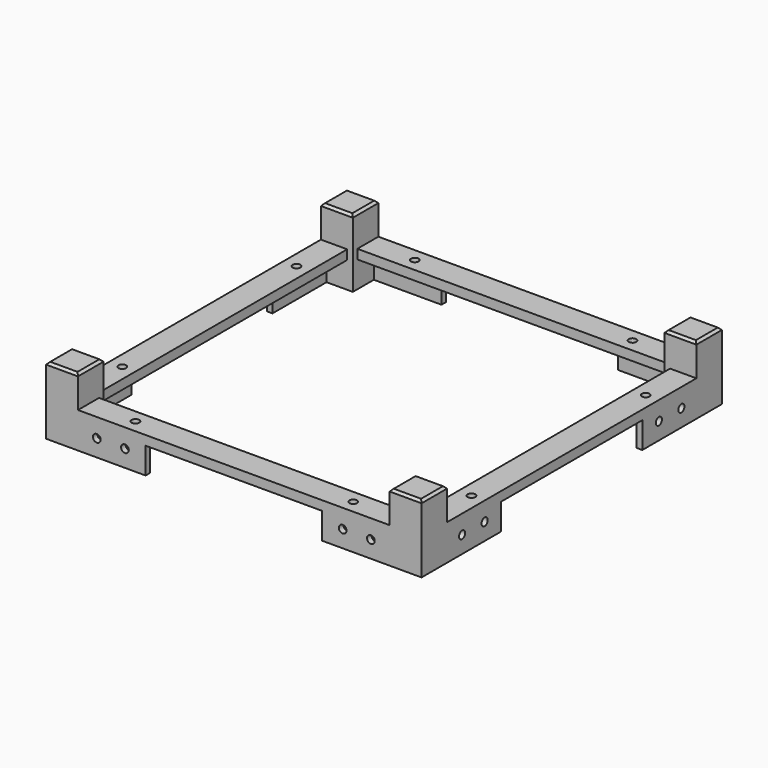
from build123d import *

# Parameters (mm, degrees)
CUBE033_W                     = 9.5
CUBE033_H                     = 9.5
CUBE033_DEPTH                 = 100
CUBE033_ROLL_ANGLE            = 45
CUBE033_PLACEMENT_ANGLE       = 180
CUBE032_W                     = 9.5
CUBE032_H                     = 9.5
CUBE032_DEPTH                 = 100
CUBE032_PLACEMENT_ANGLE       = 45
CUBE035_W                     = 9.5
CUBE035_H                     = 9.5
CUBE035_DEPTH                 = 100
CUBE035_ROLL_ANGLE            = 45
CUBE035_PLACEMENT_ANGLE       = -90
CUBE034_W                     = 9.5
CUBE034_H                     = 9.5
CUBE034_DEPTH                 = 100
CUBE034_PLACEMENT_ANGLE       = 45
CUBE031_W                     = 9.5
CUBE031_H                     = 9.5
CUBE031_DEPTH                 = 100
CUBE031_ROLL_ANGLE            = 45
CUBE031_PLACEMENT_ANGLE       = 90
CUBE030_W                     = 9.5
CUBE030_H                     = 9.5
CUBE030_DEPTH                 = 100
CUBE030_PLACEMENT_ANGLE       = 45
CUBE029_W                     = 8.5
CUBE029_H                     = 8.5
CUBE029_DEPTH                 = 18
DIFFERENCE011_PLACEMENT_ANGLE = 90
CUBE026_W                     = 9.5
CUBE026_H                     = 9.5
CUBE026_DEPTH                 = 100
CUBE026_ROLL_ANGLE            = 45
CUBE026_PLACEMENT_ANGLE       = 180
CUBE025_W                     = 9.5
CUBE025_H                     = 9.5
CUBE025_DEPTH                 = 100
CUBE025_PLACEMENT_ANGLE       = 45
CUBE028_W                     = 9.5
CUBE028_H                     = 9.5
CUBE028_DEPTH                 = 100
CUBE028_ROLL_ANGLE            = 45
CUBE028_PLACEMENT_ANGLE       = -90
CUBE027_W                     = 9.5
CUBE027_H                     = 9.5
CUBE027_DEPTH                 = 100
CUBE027_PLACEMENT_ANGLE       = 45
CUBE024_W                     = 9.5
CUBE024_H                     = 9.5
CUBE024_DEPTH                 = 100
CUBE024_ROLL_ANGLE            = 45
CUBE024_PLACEMENT_ANGLE       = 90
CUBE023_W                     = 9.5
CUBE023_H                     = 9.5
CUBE023_DEPTH                 = 100
CUBE023_PLACEMENT_ANGLE       = 45
CUBE022_W                     = 8.5
CUBE022_H                     = 8.5
CUBE022_DEPTH                 = 18
CUBE047_W                     = 9.5
CUBE047_H                     = 9.5
CUBE047_DEPTH                 = 100
CUBE047_ROLL_ANGLE            = 45
CUBE047_PLACEMENT_ANGLE       = 180
CUBE046_W                     = 9.5
CUBE046_H                     = 9.5
CUBE046_DEPTH                 = 100
CUBE046_PLACEMENT_ANGLE       = 45
CUBE049_W                     = 9.5
CUBE049_H                     = 9.5
CUBE049_DEPTH                 = 100
CUBE049_ROLL_ANGLE            = 45
CUBE049_PLACEMENT_ANGLE       = -90
CUBE048_W                     = 9.5
CUBE048_H                     = 9.5
CUBE048_DEPTH                 = 100
CUBE048_PLACEMENT_ANGLE       = 45
CUBE045_W                     = 9.5
CUBE045_H                     = 9.5
CUBE045_DEPTH                 = 100
CUBE045_ROLL_ANGLE            = 45
CUBE045_PLACEMENT_ANGLE       = 90
CUBE044_W                     = 9.5
CUBE044_H                     = 9.5
CUBE044_DEPTH                 = 100
CUBE044_PLACEMENT_ANGLE       = 45
CUBE043_W                     = 8.5
CUBE043_H                     = 8.5
CUBE043_DEPTH                 = 18
DIFFERENCE013_PLACEMENT_ANGLE = 180
CUBE040_W                     = 9.5
CUBE040_H                     = 9.5
CUBE040_DEPTH                 = 100
CUBE040_ROLL_ANGLE            = 45
CUBE040_PLACEMENT_ANGLE       = 180
CUBE039_W                     = 9.5
CUBE039_H                     = 9.5
CUBE039_DEPTH                 = 100
CUBE039_PLACEMENT_ANGLE       = 45
CUBE042_W                     = 9.5
CUBE042_H                     = 9.5
CUBE042_DEPTH                 = 100
CUBE042_ROLL_ANGLE            = 45
CUBE042_PLACEMENT_ANGLE       = -90
CUBE041_W                     = 9.5
CUBE041_H                     = 9.5
CUBE041_DEPTH                 = 100
CUBE041_PLACEMENT_ANGLE       = 45
CUBE038_W                     = 9.5
CUBE038_H                     = 9.5
CUBE038_DEPTH                 = 100
CUBE038_ROLL_ANGLE            = 45
CUBE038_PLACEMENT_ANGLE       = 90
CUBE037_W                     = 9.5
CUBE037_H                     = 9.5
CUBE037_DEPTH                 = 100
CUBE037_PLACEMENT_ANGLE       = 45
CUBE036_W                     = 8.5
CUBE036_H                     = 8.5
CUBE036_DEPTH                 = 18
CUBE061_W                     = 9.5
CUBE061_H                     = 9.5
CUBE061_DEPTH                 = 100
CUBE061_ROLL_ANGLE            = 45
CUBE061_PLACEMENT_ANGLE       = 180
CUBE060_W                     = 9.5
CUBE060_H                     = 9.5
CUBE060_DEPTH                 = 100
CUBE060_PLACEMENT_ANGLE       = 45
CUBE063_W                     = 9.5
CUBE063_H                     = 9.5
CUBE063_DEPTH                 = 100
CUBE063_ROLL_ANGLE            = 45
CUBE063_PLACEMENT_ANGLE       = -90
CUBE062_W                     = 9.5
CUBE062_H                     = 9.5
CUBE062_DEPTH                 = 100
CUBE062_PLACEMENT_ANGLE       = 45
CUBE059_W                     = 9.5
CUBE059_H                     = 9.5
CUBE059_DEPTH                 = 100
CUBE059_ROLL_ANGLE            = 45
CUBE059_PLACEMENT_ANGLE       = 90
CUBE058_W                     = 9.5
CUBE058_H                     = 9.5
CUBE058_DEPTH                 = 100
CUBE058_PLACEMENT_ANGLE       = 45
CUBE057_W                     = 8.5
CUBE057_H                     = 8.5
CUBE057_DEPTH                 = 18
DIFFERENCE015_PLACEMENT_ANGLE = 90
CUBE054_W                     = 9.5
CUBE054_H                     = 9.5
CUBE054_DEPTH                 = 100
CUBE054_ROLL_ANGLE            = 45
CUBE054_PLACEMENT_ANGLE       = 180
CUBE053_W                     = 9.5
CUBE053_H                     = 9.5
CUBE053_DEPTH                 = 100
CUBE053_PLACEMENT_ANGLE       = 45
CUBE056_W                     = 9.5
CUBE056_H                     = 9.5
CUBE056_DEPTH                 = 100
CUBE056_ROLL_ANGLE            = 45
CUBE056_PLACEMENT_ANGLE       = -90
CUBE055_W                     = 9.5
CUBE055_H                     = 9.5
CUBE055_DEPTH                 = 100
CUBE055_PLACEMENT_ANGLE       = 45
CUBE052_W                     = 9.5
CUBE052_H                     = 9.5
CUBE052_DEPTH                 = 100
CUBE052_ROLL_ANGLE            = 45
CUBE052_PLACEMENT_ANGLE       = 90
CUBE051_W                     = 9.5
CUBE051_H                     = 9.5
CUBE051_DEPTH                 = 100
CUBE051_PLACEMENT_ANGLE       = 45
CUBE050_W                     = 8.5
CUBE050_H                     = 8.5
CUBE050_DEPTH                 = 18
CUBE019_W                     = 9.5
CUBE019_H                     = 9.5
CUBE019_DEPTH                 = 100
CUBE019_ROLL_ANGLE            = 45
CUBE019_PLACEMENT_ANGLE       = 180
CUBE018_W                     = 9.5
CUBE018_H                     = 9.5
CUBE018_DEPTH                 = 100
CUBE018_PLACEMENT_ANGLE       = 45
CUBE021_W                     = 9.5
CUBE021_H                     = 9.5
CUBE021_DEPTH                 = 100
CUBE021_ROLL_ANGLE            = 45
CUBE021_PLACEMENT_ANGLE       = -90
CUBE020_W                     = 9.5
CUBE020_H                     = 9.5
CUBE020_DEPTH                 = 100
CUBE020_PLACEMENT_ANGLE       = 45
CUBE017_W                     = 9.5
CUBE017_H                     = 9.5
CUBE017_DEPTH                 = 100
CUBE017_ROLL_ANGLE            = 45
CUBE017_PLACEMENT_ANGLE       = 90
CUBE016_W                     = 9.5
CUBE016_H                     = 9.5
CUBE016_DEPTH                 = 100
CUBE016_PLACEMENT_ANGLE       = 45
CUBE015_W                     = 8.5
CUBE015_H                     = 8.5
CUBE015_DEPTH                 = 18
CUBE012_W                     = 9.5
CUBE012_H                     = 9.5
CUBE012_DEPTH                 = 100
CUBE012_ROLL_ANGLE            = 45
CUBE012_PLACEMENT_ANGLE       = 180
CUBE011_W                     = 9.5
CUBE011_H                     = 9.5
CUBE011_DEPTH                 = 100
CUBE011_PLACEMENT_ANGLE       = 45
CUBE014_W                     = 9.5
CUBE014_H                     = 9.5
CUBE014_DEPTH                 = 100
CUBE014_ROLL_ANGLE            = 45
CUBE014_PLACEMENT_ANGLE       = -90
CUBE013_W                     = 9.5
CUBE013_H                     = 9.5
CUBE013_DEPTH                 = 100
CUBE013_PLACEMENT_ANGLE       = 45
CUBE010_W                     = 9.5
CUBE010_H                     = 9.5
CUBE010_DEPTH                 = 100
CUBE010_ROLL_ANGLE            = 45
CUBE010_PLACEMENT_ANGLE       = 90
CUBE009_W                     = 9.5
CUBE009_H                     = 9.5
CUBE009_DEPTH                 = 100
CUBE009_PLACEMENT_ANGLE       = 45
CUBE008_W                     = 8.5
CUBE008_H                     = 8.5
CUBE008_DEPTH                 = 18
CYLINDER023_R                 = 1.025
CYLINDER023_DEPTH             = 500
CYLINDER022_R                 = 1.025
CYLINDER022_DEPTH             = 500
CYLINDER021_R                 = 1.025
CYLINDER021_DEPTH             = 500
CYLINDER020_R                 = 1.025
CYLINDER020_DEPTH             = 500
GROUP060_PLACEMENT_ANGLE      = 90
CYLINDER027_R                 = 1.025
CYLINDER027_DEPTH             = 500
CYLINDER026_R                 = 1.025
CYLINDER026_DEPTH             = 500
CYLINDER025_R                 = 1.025
CYLINDER025_DEPTH             = 500
CYLINDER024_R                 = 1.025
CYLINDER024_DEPTH             = 500
GROUP063_PLACEMENT_ANGLE      = 180
CYLINDER031_R                 = 1.025
CYLINDER031_DEPTH             = 500
CYLINDER030_R                 = 1.025
CYLINDER030_DEPTH             = 500
CYLINDER029_R                 = 1.025
CYLINDER029_DEPTH             = 500
CYLINDER028_R                 = 1.025
CYLINDER028_DEPTH             = 500
GROUP066_PLACEMENT_ANGLE      = 90
CYLINDER019_R                 = 1.025
CYLINDER019_DEPTH             = 500
CYLINDER018_R                 = 1.025
CYLINDER018_DEPTH             = 500
CYLINDER017_R                 = 1.025
CYLINDER017_DEPTH             = 500
CYLINDER016_R                 = 1.025
CYLINDER016_DEPTH             = 500
CUBE067_W                     = 1.5
CUBE067_H                     = 18
CUBE067_DEPTH                 = 9.5
CUBE066_W                     = 1.5
CUBE066_H                     = 18
CUBE066_DEPTH                 = 9.5
GROUP051_PLACEMENT_ANGLE      = 90
CUBE069_W                     = 1.5
CUBE069_H                     = 18
CUBE069_DEPTH                 = 9.5
CUBE068_W                     = 1.5
CUBE068_H                     = 18
CUBE068_DEPTH                 = 9.5
GROUP052_PLACEMENT_ANGLE      = 180
CUBE071_W                     = 1.5
CUBE071_H                     = 18
CUBE071_DEPTH                 = 9.5
CUBE070_W                     = 1.5
CUBE070_H                     = 18
CUBE070_DEPTH                 = 9.5
GROUP053_PLACEMENT_ANGLE      = 90
CUBE065_W                     = 1.5
CUBE065_H                     = 18
CUBE065_DEPTH                 = 9.5
CUBE064_W                     = 1.5
CUBE064_H                     = 18
CUBE064_DEPTH                 = 9.5
CYLINDER007_R                 = 1.025
CYLINDER007_DEPTH             = 100
CYLINDER006_R                 = 1.025
CYLINDER006_DEPTH             = 100
CUBE003_W                     = 100
CUBE003_H                     = 7
CUBE003_DEPTH                 = 2.5
DIFFERENCE003_PLACEMENT_ANGLE = 90
CYLINDER005_R                 = 1.025
CYLINDER005_DEPTH             = 100
CYLINDER004_R                 = 1.025
CYLINDER004_DEPTH             = 100
CUBE002_W                     = 100
CUBE002_H                     = 7
CUBE002_DEPTH                 = 2.5
CYLINDER011_R                 = 1.025
CYLINDER011_DEPTH             = 100
CYLINDER010_R                 = 1.025
CYLINDER010_DEPTH             = 100
CUBE005_W                     = 100
CUBE005_H                     = 7
CUBE005_DEPTH                 = 2.5
DIFFERENCE005_PLACEMENT_ANGLE = 180
CYLINDER009_R                 = 1.025
CYLINDER009_DEPTH             = 100
CYLINDER008_R                 = 1.025
CYLINDER008_DEPTH             = 100
CUBE004_W                     = 100
CUBE004_H                     = 7
CUBE004_DEPTH                 = 2.5
CYLINDER015_R                 = 1.025
CYLINDER015_DEPTH             = 100
CYLINDER014_R                 = 1.025
CYLINDER014_DEPTH             = 100
CUBE007_W                     = 100
CUBE007_H                     = 7
CUBE007_DEPTH                 = 2.5
DIFFERENCE007_PLACEMENT_ANGLE = 90
CYLINDER013_R                 = 1.025
CYLINDER013_DEPTH             = 100
CYLINDER012_R                 = 1.025
CYLINDER012_DEPTH             = 100
CUBE006_W                     = 100
CUBE006_H                     = 7
CUBE006_DEPTH                 = 2.5
CYLINDER003_R                 = 1.025
CYLINDER003_DEPTH             = 100
CYLINDER002_R                 = 1.025
CYLINDER002_DEPTH             = 100
CUBE001_W                     = 100
CUBE001_H                     = 7
CUBE001_DEPTH                 = 2.5
CYLINDER001_R                 = 1.025
CYLINDER001_DEPTH             = 100
CYLINDER_R                    = 1.025
CYLINDER_DEPTH                = 100
CUBE_W                        = 100
CUBE_H                        = 7
CUBE_DEPTH                    = 2.5


with BuildPart() as cube033:
    # cube033 → cube033 (new body)
    with BuildSketch(Plane.XY):
        with Locations((4.75, 4.75)):
            Rectangle(CUBE033_W, CUBE033_H)
    extrude(amount=CUBE033_DEPTH)


with BuildPart() as cube033_1:
    # cube033 roll: moved
    add(cube033.part.rotate(Axis((0, 0, 0), (1, 0, 0)), CUBE033_ROLL_ANGLE))


with BuildPart() as cube033_2:
    # cube033 placement: moved
    add(cube033_1.part.moved(Location((4.75, -42.346582, -38.714096))).rotate(Axis((4.75, -42.346582, -38.714096), (0, 0, 1)), CUBE033_PLACEMENT_ANGLE))


with BuildPart() as group027:
    # cube032 → cube032 (new body)
    with BuildSketch(Plane.XY):
        with Locations((4.75, 4.75)):
            Rectangle(CUBE032_W, CUBE032_H)
    extrude(amount=CUBE032_DEPTH)


with BuildPart() as group027_1:
    # cube032 placement: moved
    add(group027.part.moved(Location((-4.75, 42.346582, -38.714096))).rotate(Axis((-4.75, 42.346582, -38.714096), (1, 0, 0)), CUBE032_PLACEMENT_ANGLE))

    # Group027: union cube033
    add(cube033_2.part)


with BuildPart() as cube035:
    # cube035 → cube035 (new body)
    with BuildSketch(Plane.XY):
        with Locations((4.75, 4.75)):
            Rectangle(CUBE035_W, CUBE035_H)
    extrude(amount=CUBE035_DEPTH)


with BuildPart() as cube035_1:
    # cube035 roll: moved
    add(cube035.part.rotate(Axis((0, 0, 0), (1, 0, 0)), CUBE035_ROLL_ANGLE))


with BuildPart() as cube035_2:
    # cube035 placement: moved
    add(cube035_1.part.moved(Location((42.346582, 4.75, -38.714096))).rotate(Axis((42.346582, 4.75, -38.714096), (0, 0, 1)), CUBE035_PLACEMENT_ANGLE))


with BuildPart() as group028:
    # cube034 → cube034 (new body)
    with BuildSketch(Plane.XY):
        with Locations((4.75, 4.75)):
            Rectangle(CUBE034_W, CUBE034_H)
    extrude(amount=CUBE034_DEPTH)


with BuildPart() as group028_1:
    # cube034 placement: moved
    add(group028.part.moved(Location((-4.75, 42.346582, -38.714096))).rotate(Axis((-4.75, 42.346582, -38.714096), (1, 0, 0)), CUBE034_PLACEMENT_ANGLE))

    # Group028: union cube035
    add(cube035_2.part)


with BuildPart() as cube031:
    # cube031 → cube031 (new body)
    with BuildSketch(Plane.XY):
        with Locations((4.75, 4.75)):
            Rectangle(CUBE031_W, CUBE031_H)
    extrude(amount=CUBE031_DEPTH)


with BuildPart() as cube031_1:
    # cube031 roll: moved
    add(cube031.part.rotate(Axis((0, 0, 0), (1, 0, 0)), CUBE031_ROLL_ANGLE))


with BuildPart() as cube031_2:
    # cube031 placement: moved
    add(cube031_1.part.moved(Location((-42.346582, -4.75, -38.714096))).rotate(Axis((-42.346582, -4.75, -38.714096), (0, 0, 1)), CUBE031_PLACEMENT_ANGLE))


with BuildPart() as group029:
    # cube030 → cube030 (new body)
    with BuildSketch(Plane.XY):
        with Locations((4.75, 4.75)):
            Rectangle(CUBE030_W, CUBE030_H)
    extrude(amount=CUBE030_DEPTH)


with BuildPart() as group029_1:
    # cube030 placement: moved
    add(group029.part.moved(Location((-4.75, 42.346582, -38.714096))).rotate(Axis((-4.75, 42.346582, -38.714096), (1, 0, 0)), CUBE030_PLACEMENT_ANGLE))

    # Group026: union cube031
    add(cube031_2.part)

    # Group029: union Group027, Group028
    add(group027_1.part)
    add(group028_1.part)


with BuildPart() as difference011:
    # cube029 → cube029 (new body)
    with BuildSketch(Plane(origin=(-4.25, -4.25, -18), x_dir=(1, 0, 0), z_dir=(0, 0, 1))):
        with Locations((4.25, 4.25)):
            Rectangle(CUBE029_W, CUBE029_H)
    extrude(amount=CUBE029_DEPTH)

    # difference011: cut Group029
    add(group029_1.part, mode=Mode.SUBTRACT)


with BuildPart() as difference011_1:
    # difference011 placement: moved
    add(difference011.part.moved(Location((45.75, -45.75, 8.5))).rotate(Axis((45.75, -45.75, 8.5), (0, 0, 1)), DIFFERENCE011_PLACEMENT_ANGLE))


with BuildPart() as cube026:
    # cube026 → cube026 (new body)
    with BuildSketch(Plane.XY):
        with Locations((4.75, 4.75)):
            Rectangle(CUBE026_W, CUBE026_H)
    extrude(amount=CUBE026_DEPTH)


with BuildPart() as cube026_1:
    # cube026 roll: moved
    add(cube026.part.rotate(Axis((0, 0, 0), (1, 0, 0)), CUBE026_ROLL_ANGLE))


with BuildPart() as cube026_2:
    # cube026 placement: moved
    add(cube026_1.part.moved(Location((4.75, -42.346582, -38.714096))).rotate(Axis((4.75, -42.346582, -38.714096), (0, 0, 1)), CUBE026_PLACEMENT_ANGLE))


with BuildPart() as group023:
    # cube025 → cube025 (new body)
    with BuildSketch(Plane.XY):
        with Locations((4.75, 4.75)):
            Rectangle(CUBE025_W, CUBE025_H)
    extrude(amount=CUBE025_DEPTH)


with BuildPart() as group023_1:
    # cube025 placement: moved
    add(group023.part.moved(Location((-4.75, 42.346582, -38.714096))).rotate(Axis((-4.75, 42.346582, -38.714096), (1, 0, 0)), CUBE025_PLACEMENT_ANGLE))

    # Group023: union cube026
    add(cube026_2.part)


with BuildPart() as cube028:
    # cube028 → cube028 (new body)
    with BuildSketch(Plane.XY):
        with Locations((4.75, 4.75)):
            Rectangle(CUBE028_W, CUBE028_H)
    extrude(amount=CUBE028_DEPTH)


with BuildPart() as cube028_1:
    # cube028 roll: moved
    add(cube028.part.rotate(Axis((0, 0, 0), (1, 0, 0)), CUBE028_ROLL_ANGLE))


with BuildPart() as cube028_2:
    # cube028 placement: moved
    add(cube028_1.part.moved(Location((42.346582, 4.75, -38.714096))).rotate(Axis((42.346582, 4.75, -38.714096), (0, 0, 1)), CUBE028_PLACEMENT_ANGLE))


with BuildPart() as group024:
    # cube027 → cube027 (new body)
    with BuildSketch(Plane.XY):
        with Locations((4.75, 4.75)):
            Rectangle(CUBE027_W, CUBE027_H)
    extrude(amount=CUBE027_DEPTH)


with BuildPart() as group024_1:
    # cube027 placement: moved
    add(group024.part.moved(Location((-4.75, 42.346582, -38.714096))).rotate(Axis((-4.75, 42.346582, -38.714096), (1, 0, 0)), CUBE027_PLACEMENT_ANGLE))

    # Group024: union cube028
    add(cube028_2.part)


with BuildPart() as cube024:
    # cube024 → cube024 (new body)
    with BuildSketch(Plane.XY):
        with Locations((4.75, 4.75)):
            Rectangle(CUBE024_W, CUBE024_H)
    extrude(amount=CUBE024_DEPTH)


with BuildPart() as cube024_1:
    # cube024 roll: moved
    add(cube024.part.rotate(Axis((0, 0, 0), (1, 0, 0)), CUBE024_ROLL_ANGLE))


with BuildPart() as cube024_2:
    # cube024 placement: moved
    add(cube024_1.part.moved(Location((-42.346582, -4.75, -38.714096))).rotate(Axis((-42.346582, -4.75, -38.714096), (0, 0, 1)), CUBE024_PLACEMENT_ANGLE))


with BuildPart() as group025:
    # cube023 → cube023 (new body)
    with BuildSketch(Plane.XY):
        with Locations((4.75, 4.75)):
            Rectangle(CUBE023_W, CUBE023_H)
    extrude(amount=CUBE023_DEPTH)


with BuildPart() as group025_1:
    # cube023 placement: moved
    add(group025.part.moved(Location((-4.75, 42.346582, -38.714096))).rotate(Axis((-4.75, 42.346582, -38.714096), (1, 0, 0)), CUBE023_PLACEMENT_ANGLE))

    # Group022: union cube024
    add(cube024_2.part)

    # Group025: union Group023, Group024
    add(group023_1.part)
    add(group024_1.part)


with BuildPart() as group030:
    # cube022 → cube022 (new body)
    with BuildSketch(Plane(origin=(-4.25, -4.25, -18), x_dir=(1, 0, 0), z_dir=(0, 0, 1))):
        with Locations((4.25, 4.25)):
            Rectangle(CUBE022_W, CUBE022_H)
    extrude(amount=CUBE022_DEPTH)

    # difference010: cut Group025
    add(group025_1.part, mode=Mode.SUBTRACT)


with BuildPart() as group030_1:
    # difference010 placement: moved
    add(group030.part.moved(Location((-45.75, -45.75, 8.5))))

    # Group030: union difference011
    add(difference011_1.part)


with BuildPart() as cube047:
    # cube047 → cube047 (new body)
    with BuildSketch(Plane.XY):
        with Locations((4.75, 4.75)):
            Rectangle(CUBE047_W, CUBE047_H)
    extrude(amount=CUBE047_DEPTH)


with BuildPart() as cube047_1:
    # cube047 roll: moved
    add(cube047.part.rotate(Axis((0, 0, 0), (1, 0, 0)), CUBE047_ROLL_ANGLE))


with BuildPart() as cube047_2:
    # cube047 placement: moved
    add(cube047_1.part.moved(Location((4.75, -42.346582, -38.714096))).rotate(Axis((4.75, -42.346582, -38.714096), (0, 0, 1)), CUBE047_PLACEMENT_ANGLE))


with BuildPart() as group036:
    # cube046 → cube046 (new body)
    with BuildSketch(Plane.XY):
        with Locations((4.75, 4.75)):
            Rectangle(CUBE046_W, CUBE046_H)
    extrude(amount=CUBE046_DEPTH)


with BuildPart() as group036_1:
    # cube046 placement: moved
    add(group036.part.moved(Location((-4.75, 42.346582, -38.714096))).rotate(Axis((-4.75, 42.346582, -38.714096), (1, 0, 0)), CUBE046_PLACEMENT_ANGLE))

    # Group036: union cube047
    add(cube047_2.part)


with BuildPart() as cube049:
    # cube049 → cube049 (new body)
    with BuildSketch(Plane.XY):
        with Locations((4.75, 4.75)):
            Rectangle(CUBE049_W, CUBE049_H)
    extrude(amount=CUBE049_DEPTH)


with BuildPart() as cube049_1:
    # cube049 roll: moved
    add(cube049.part.rotate(Axis((0, 0, 0), (1, 0, 0)), CUBE049_ROLL_ANGLE))


with BuildPart() as cube049_2:
    # cube049 placement: moved
    add(cube049_1.part.moved(Location((42.346582, 4.75, -38.714096))).rotate(Axis((42.346582, 4.75, -38.714096), (0, 0, 1)), CUBE049_PLACEMENT_ANGLE))


with BuildPart() as group037:
    # cube048 → cube048 (new body)
    with BuildSketch(Plane.XY):
        with Locations((4.75, 4.75)):
            Rectangle(CUBE048_W, CUBE048_H)
    extrude(amount=CUBE048_DEPTH)


with BuildPart() as group037_1:
    # cube048 placement: moved
    add(group037.part.moved(Location((-4.75, 42.346582, -38.714096))).rotate(Axis((-4.75, 42.346582, -38.714096), (1, 0, 0)), CUBE048_PLACEMENT_ANGLE))

    # Group037: union cube049
    add(cube049_2.part)


with BuildPart() as cube045:
    # cube045 → cube045 (new body)
    with BuildSketch(Plane.XY):
        with Locations((4.75, 4.75)):
            Rectangle(CUBE045_W, CUBE045_H)
    extrude(amount=CUBE045_DEPTH)


with BuildPart() as cube045_1:
    # cube045 roll: moved
    add(cube045.part.rotate(Axis((0, 0, 0), (1, 0, 0)), CUBE045_ROLL_ANGLE))


with BuildPart() as cube045_2:
    # cube045 placement: moved
    add(cube045_1.part.moved(Location((-42.346582, -4.75, -38.714096))).rotate(Axis((-42.346582, -4.75, -38.714096), (0, 0, 1)), CUBE045_PLACEMENT_ANGLE))


with BuildPart() as group038:
    # cube044 → cube044 (new body)
    with BuildSketch(Plane.XY):
        with Locations((4.75, 4.75)):
            Rectangle(CUBE044_W, CUBE044_H)
    extrude(amount=CUBE044_DEPTH)


with BuildPart() as group038_1:
    # cube044 placement: moved
    add(group038.part.moved(Location((-4.75, 42.346582, -38.714096))).rotate(Axis((-4.75, 42.346582, -38.714096), (1, 0, 0)), CUBE044_PLACEMENT_ANGLE))

    # Group035: union cube045
    add(cube045_2.part)

    # Group038: union Group036, Group037
    add(group036_1.part)
    add(group037_1.part)


with BuildPart() as difference013:
    # cube043 → cube043 (new body)
    with BuildSketch(Plane(origin=(-4.25, -4.25, -18), x_dir=(1, 0, 0), z_dir=(0, 0, 1))):
        with Locations((4.25, 4.25)):
            Rectangle(CUBE043_W, CUBE043_H)
    extrude(amount=CUBE043_DEPTH)

    # difference013: cut Group038
    add(group038_1.part, mode=Mode.SUBTRACT)


with BuildPart() as difference013_1:
    # difference013 placement: moved
    add(difference013.part.moved(Location((45.75, 45.75, 8.5))).rotate(Axis((45.75, 45.75, 8.5), (0, 0, 1)), DIFFERENCE013_PLACEMENT_ANGLE))


with BuildPart() as cube040:
    # cube040 → cube040 (new body)
    with BuildSketch(Plane.XY):
        with Locations((4.75, 4.75)):
            Rectangle(CUBE040_W, CUBE040_H)
    extrude(amount=CUBE040_DEPTH)


with BuildPart() as cube040_1:
    # cube040 roll: moved
    add(cube040.part.rotate(Axis((0, 0, 0), (1, 0, 0)), CUBE040_ROLL_ANGLE))


with BuildPart() as cube040_2:
    # cube040 placement: moved
    add(cube040_1.part.moved(Location((4.75, -42.346582, -38.714096))).rotate(Axis((4.75, -42.346582, -38.714096), (0, 0, 1)), CUBE040_PLACEMENT_ANGLE))


with BuildPart() as group032:
    # cube039 → cube039 (new body)
    with BuildSketch(Plane.XY):
        with Locations((4.75, 4.75)):
            Rectangle(CUBE039_W, CUBE039_H)
    extrude(amount=CUBE039_DEPTH)


with BuildPart() as group032_1:
    # cube039 placement: moved
    add(group032.part.moved(Location((-4.75, 42.346582, -38.714096))).rotate(Axis((-4.75, 42.346582, -38.714096), (1, 0, 0)), CUBE039_PLACEMENT_ANGLE))

    # Group032: union cube040
    add(cube040_2.part)


with BuildPart() as cube042:
    # cube042 → cube042 (new body)
    with BuildSketch(Plane.XY):
        with Locations((4.75, 4.75)):
            Rectangle(CUBE042_W, CUBE042_H)
    extrude(amount=CUBE042_DEPTH)


with BuildPart() as cube042_1:
    # cube042 roll: moved
    add(cube042.part.rotate(Axis((0, 0, 0), (1, 0, 0)), CUBE042_ROLL_ANGLE))


with BuildPart() as cube042_2:
    # cube042 placement: moved
    add(cube042_1.part.moved(Location((42.346582, 4.75, -38.714096))).rotate(Axis((42.346582, 4.75, -38.714096), (0, 0, 1)), CUBE042_PLACEMENT_ANGLE))


with BuildPart() as group033:
    # cube041 → cube041 (new body)
    with BuildSketch(Plane.XY):
        with Locations((4.75, 4.75)):
            Rectangle(CUBE041_W, CUBE041_H)
    extrude(amount=CUBE041_DEPTH)


with BuildPart() as group033_1:
    # cube041 placement: moved
    add(group033.part.moved(Location((-4.75, 42.346582, -38.714096))).rotate(Axis((-4.75, 42.346582, -38.714096), (1, 0, 0)), CUBE041_PLACEMENT_ANGLE))

    # Group033: union cube042
    add(cube042_2.part)


with BuildPart() as cube038:
    # cube038 → cube038 (new body)
    with BuildSketch(Plane.XY):
        with Locations((4.75, 4.75)):
            Rectangle(CUBE038_W, CUBE038_H)
    extrude(amount=CUBE038_DEPTH)


with BuildPart() as cube038_1:
    # cube038 roll: moved
    add(cube038.part.rotate(Axis((0, 0, 0), (1, 0, 0)), CUBE038_ROLL_ANGLE))


with BuildPart() as cube038_2:
    # cube038 placement: moved
    add(cube038_1.part.moved(Location((-42.346582, -4.75, -38.714096))).rotate(Axis((-42.346582, -4.75, -38.714096), (0, 0, 1)), CUBE038_PLACEMENT_ANGLE))


with BuildPart() as group034:
    # cube037 → cube037 (new body)
    with BuildSketch(Plane.XY):
        with Locations((4.75, 4.75)):
            Rectangle(CUBE037_W, CUBE037_H)
    extrude(amount=CUBE037_DEPTH)


with BuildPart() as group034_1:
    # cube037 placement: moved
    add(group034.part.moved(Location((-4.75, 42.346582, -38.714096))).rotate(Axis((-4.75, 42.346582, -38.714096), (1, 0, 0)), CUBE037_PLACEMENT_ANGLE))

    # Group031: union cube038
    add(cube038_2.part)

    # Group034: union Group032, Group033
    add(group032_1.part)
    add(group033_1.part)


with BuildPart() as group039:
    # cube036 → cube036 (new body)
    with BuildSketch(Plane(origin=(-4.25, -4.25, -18), x_dir=(1, 0, 0), z_dir=(0, 0, 1))):
        with Locations((4.25, 4.25)):
            Rectangle(CUBE036_W, CUBE036_H)
    extrude(amount=CUBE036_DEPTH)

    # difference012: cut Group034
    add(group034_1.part, mode=Mode.SUBTRACT)


with BuildPart() as group039_1:
    # difference012 placement: moved
    add(group039.part.moved(Location((-45.75, -45.75, 8.5))))

    # Group039: union difference013
    add(difference013_1.part)


with BuildPart() as cube061:
    # cube061 → cube061 (new body)
    with BuildSketch(Plane.XY):
        with Locations((4.75, 4.75)):
            Rectangle(CUBE061_W, CUBE061_H)
    extrude(amount=CUBE061_DEPTH)


with BuildPart() as cube061_1:
    # cube061 roll: moved
    add(cube061.part.rotate(Axis((0, 0, 0), (1, 0, 0)), CUBE061_ROLL_ANGLE))


with BuildPart() as cube061_2:
    # cube061 placement: moved
    add(cube061_1.part.moved(Location((4.75, -42.346582, -38.714096))).rotate(Axis((4.75, -42.346582, -38.714096), (0, 0, 1)), CUBE061_PLACEMENT_ANGLE))


with BuildPart() as group045:
    # cube060 → cube060 (new body)
    with BuildSketch(Plane.XY):
        with Locations((4.75, 4.75)):
            Rectangle(CUBE060_W, CUBE060_H)
    extrude(amount=CUBE060_DEPTH)


with BuildPart() as group045_1:
    # cube060 placement: moved
    add(group045.part.moved(Location((-4.75, 42.346582, -38.714096))).rotate(Axis((-4.75, 42.346582, -38.714096), (1, 0, 0)), CUBE060_PLACEMENT_ANGLE))

    # Group045: union cube061
    add(cube061_2.part)


with BuildPart() as cube063:
    # cube063 → cube063 (new body)
    with BuildSketch(Plane.XY):
        with Locations((4.75, 4.75)):
            Rectangle(CUBE063_W, CUBE063_H)
    extrude(amount=CUBE063_DEPTH)


with BuildPart() as cube063_1:
    # cube063 roll: moved
    add(cube063.part.rotate(Axis((0, 0, 0), (1, 0, 0)), CUBE063_ROLL_ANGLE))


with BuildPart() as cube063_2:
    # cube063 placement: moved
    add(cube063_1.part.moved(Location((42.346582, 4.75, -38.714096))).rotate(Axis((42.346582, 4.75, -38.714096), (0, 0, 1)), CUBE063_PLACEMENT_ANGLE))


with BuildPart() as group046:
    # cube062 → cube062 (new body)
    with BuildSketch(Plane.XY):
        with Locations((4.75, 4.75)):
            Rectangle(CUBE062_W, CUBE062_H)
    extrude(amount=CUBE062_DEPTH)


with BuildPart() as group046_1:
    # cube062 placement: moved
    add(group046.part.moved(Location((-4.75, 42.346582, -38.714096))).rotate(Axis((-4.75, 42.346582, -38.714096), (1, 0, 0)), CUBE062_PLACEMENT_ANGLE))

    # Group046: union cube063
    add(cube063_2.part)


with BuildPart() as cube059:
    # cube059 → cube059 (new body)
    with BuildSketch(Plane.XY):
        with Locations((4.75, 4.75)):
            Rectangle(CUBE059_W, CUBE059_H)
    extrude(amount=CUBE059_DEPTH)


with BuildPart() as cube059_1:
    # cube059 roll: moved
    add(cube059.part.rotate(Axis((0, 0, 0), (1, 0, 0)), CUBE059_ROLL_ANGLE))


with BuildPart() as cube059_2:
    # cube059 placement: moved
    add(cube059_1.part.moved(Location((-42.346582, -4.75, -38.714096))).rotate(Axis((-42.346582, -4.75, -38.714096), (0, 0, 1)), CUBE059_PLACEMENT_ANGLE))


with BuildPart() as group047:
    # cube058 → cube058 (new body)
    with BuildSketch(Plane.XY):
        with Locations((4.75, 4.75)):
            Rectangle(CUBE058_W, CUBE058_H)
    extrude(amount=CUBE058_DEPTH)


with BuildPart() as group047_1:
    # cube058 placement: moved
    add(group047.part.moved(Location((-4.75, 42.346582, -38.714096))).rotate(Axis((-4.75, 42.346582, -38.714096), (1, 0, 0)), CUBE058_PLACEMENT_ANGLE))

    # Group044: union cube059
    add(cube059_2.part)

    # Group047: union Group045, Group046
    add(group045_1.part)
    add(group046_1.part)


with BuildPart() as difference015:
    # cube057 → cube057 (new body)
    with BuildSketch(Plane(origin=(-4.25, -4.25, -18), x_dir=(1, 0, 0), z_dir=(0, 0, 1))):
        with Locations((4.25, 4.25)):
            Rectangle(CUBE057_W, CUBE057_H)
    extrude(amount=CUBE057_DEPTH)

    # difference015: cut Group047
    add(group047_1.part, mode=Mode.SUBTRACT)


with BuildPart() as difference015_1:
    # difference015 placement: moved
    add(difference015.part.moved(Location((-45.75, 45.75, 8.5))).rotate(Axis((-45.75, 45.75, 8.5), (0, 0, -1)), DIFFERENCE015_PLACEMENT_ANGLE))


with BuildPart() as cube054:
    # cube054 → cube054 (new body)
    with BuildSketch(Plane.XY):
        with Locations((4.75, 4.75)):
            Rectangle(CUBE054_W, CUBE054_H)
    extrude(amount=CUBE054_DEPTH)


with BuildPart() as cube054_1:
    # cube054 roll: moved
    add(cube054.part.rotate(Axis((0, 0, 0), (1, 0, 0)), CUBE054_ROLL_ANGLE))


with BuildPart() as cube054_2:
    # cube054 placement: moved
    add(cube054_1.part.moved(Location((4.75, -42.346582, -38.714096))).rotate(Axis((4.75, -42.346582, -38.714096), (0, 0, 1)), CUBE054_PLACEMENT_ANGLE))


with BuildPart() as group041:
    # cube053 → cube053 (new body)
    with BuildSketch(Plane.XY):
        with Locations((4.75, 4.75)):
            Rectangle(CUBE053_W, CUBE053_H)
    extrude(amount=CUBE053_DEPTH)


with BuildPart() as group041_1:
    # cube053 placement: moved
    add(group041.part.moved(Location((-4.75, 42.346582, -38.714096))).rotate(Axis((-4.75, 42.346582, -38.714096), (1, 0, 0)), CUBE053_PLACEMENT_ANGLE))

    # Group041: union cube054
    add(cube054_2.part)


with BuildPart() as cube056:
    # cube056 → cube056 (new body)
    with BuildSketch(Plane.XY):
        with Locations((4.75, 4.75)):
            Rectangle(CUBE056_W, CUBE056_H)
    extrude(amount=CUBE056_DEPTH)


with BuildPart() as cube056_1:
    # cube056 roll: moved
    add(cube056.part.rotate(Axis((0, 0, 0), (1, 0, 0)), CUBE056_ROLL_ANGLE))


with BuildPart() as cube056_2:
    # cube056 placement: moved
    add(cube056_1.part.moved(Location((42.346582, 4.75, -38.714096))).rotate(Axis((42.346582, 4.75, -38.714096), (0, 0, 1)), CUBE056_PLACEMENT_ANGLE))


with BuildPart() as group042:
    # cube055 → cube055 (new body)
    with BuildSketch(Plane.XY):
        with Locations((4.75, 4.75)):
            Rectangle(CUBE055_W, CUBE055_H)
    extrude(amount=CUBE055_DEPTH)


with BuildPart() as group042_1:
    # cube055 placement: moved
    add(group042.part.moved(Location((-4.75, 42.346582, -38.714096))).rotate(Axis((-4.75, 42.346582, -38.714096), (1, 0, 0)), CUBE055_PLACEMENT_ANGLE))

    # Group042: union cube056
    add(cube056_2.part)


with BuildPart() as cube052:
    # cube052 → cube052 (new body)
    with BuildSketch(Plane.XY):
        with Locations((4.75, 4.75)):
            Rectangle(CUBE052_W, CUBE052_H)
    extrude(amount=CUBE052_DEPTH)


with BuildPart() as cube052_1:
    # cube052 roll: moved
    add(cube052.part.rotate(Axis((0, 0, 0), (1, 0, 0)), CUBE052_ROLL_ANGLE))


with BuildPart() as cube052_2:
    # cube052 placement: moved
    add(cube052_1.part.moved(Location((-42.346582, -4.75, -38.714096))).rotate(Axis((-42.346582, -4.75, -38.714096), (0, 0, 1)), CUBE052_PLACEMENT_ANGLE))


with BuildPart() as group043:
    # cube051 → cube051 (new body)
    with BuildSketch(Plane.XY):
        with Locations((4.75, 4.75)):
            Rectangle(CUBE051_W, CUBE051_H)
    extrude(amount=CUBE051_DEPTH)


with BuildPart() as group043_1:
    # cube051 placement: moved
    add(group043.part.moved(Location((-4.75, 42.346582, -38.714096))).rotate(Axis((-4.75, 42.346582, -38.714096), (1, 0, 0)), CUBE051_PLACEMENT_ANGLE))

    # Group040: union cube052
    add(cube052_2.part)

    # Group043: union Group041, Group042
    add(group041_1.part)
    add(group042_1.part)


with BuildPart() as group048:
    # cube050 → cube050 (new body)
    with BuildSketch(Plane(origin=(-4.25, -4.25, -18), x_dir=(1, 0, 0), z_dir=(0, 0, 1))):
        with Locations((4.25, 4.25)):
            Rectangle(CUBE050_W, CUBE050_H)
    extrude(amount=CUBE050_DEPTH)

    # difference014: cut Group043
    add(group043_1.part, mode=Mode.SUBTRACT)


with BuildPart() as group048_1:
    # difference014 placement: moved
    add(group048.part.moved(Location((-45.75, -45.75, 8.5))))

    # Group048: union difference015
    add(difference015_1.part)


with BuildPart() as cube019:
    # cube019 → cube019 (new body)
    with BuildSketch(Plane.XY):
        with Locations((4.75, 4.75)):
            Rectangle(CUBE019_W, CUBE019_H)
    extrude(amount=CUBE019_DEPTH)


with BuildPart() as cube019_1:
    # cube019 roll: moved
    add(cube019.part.rotate(Axis((0, 0, 0), (1, 0, 0)), CUBE019_ROLL_ANGLE))


with BuildPart() as cube019_2:
    # cube019 placement: moved
    add(cube019_1.part.moved(Location((4.75, -42.346582, -38.714096))).rotate(Axis((4.75, -42.346582, -38.714096), (0, 0, 1)), CUBE019_PLACEMENT_ANGLE))


with BuildPart() as group018:
    # cube018 → cube018 (new body)
    with BuildSketch(Plane.XY):
        with Locations((4.75, 4.75)):
            Rectangle(CUBE018_W, CUBE018_H)
    extrude(amount=CUBE018_DEPTH)


with BuildPart() as group018_1:
    # cube018 placement: moved
    add(group018.part.moved(Location((-4.75, 42.346582, -38.714096))).rotate(Axis((-4.75, 42.346582, -38.714096), (1, 0, 0)), CUBE018_PLACEMENT_ANGLE))

    # Group018: union cube019
    add(cube019_2.part)


with BuildPart() as cube021:
    # cube021 → cube021 (new body)
    with BuildSketch(Plane.XY):
        with Locations((4.75, 4.75)):
            Rectangle(CUBE021_W, CUBE021_H)
    extrude(amount=CUBE021_DEPTH)


with BuildPart() as cube021_1:
    # cube021 roll: moved
    add(cube021.part.rotate(Axis((0, 0, 0), (1, 0, 0)), CUBE021_ROLL_ANGLE))


with BuildPart() as cube021_2:
    # cube021 placement: moved
    add(cube021_1.part.moved(Location((42.346582, 4.75, -38.714096))).rotate(Axis((42.346582, 4.75, -38.714096), (0, 0, 1)), CUBE021_PLACEMENT_ANGLE))


with BuildPart() as group019:
    # cube020 → cube020 (new body)
    with BuildSketch(Plane.XY):
        with Locations((4.75, 4.75)):
            Rectangle(CUBE020_W, CUBE020_H)
    extrude(amount=CUBE020_DEPTH)


with BuildPart() as group019_1:
    # cube020 placement: moved
    add(group019.part.moved(Location((-4.75, 42.346582, -38.714096))).rotate(Axis((-4.75, 42.346582, -38.714096), (1, 0, 0)), CUBE020_PLACEMENT_ANGLE))

    # Group019: union cube021
    add(cube021_2.part)


with BuildPart() as cube017:
    # cube017 → cube017 (new body)
    with BuildSketch(Plane.XY):
        with Locations((4.75, 4.75)):
            Rectangle(CUBE017_W, CUBE017_H)
    extrude(amount=CUBE017_DEPTH)


with BuildPart() as cube017_1:
    # cube017 roll: moved
    add(cube017.part.rotate(Axis((0, 0, 0), (1, 0, 0)), CUBE017_ROLL_ANGLE))


with BuildPart() as cube017_2:
    # cube017 placement: moved
    add(cube017_1.part.moved(Location((-42.346582, -4.75, -38.714096))).rotate(Axis((-42.346582, -4.75, -38.714096), (0, 0, 1)), CUBE017_PLACEMENT_ANGLE))


with BuildPart() as group020:
    # cube016 → cube016 (new body)
    with BuildSketch(Plane.XY):
        with Locations((4.75, 4.75)):
            Rectangle(CUBE016_W, CUBE016_H)
    extrude(amount=CUBE016_DEPTH)


with BuildPart() as group020_1:
    # cube016 placement: moved
    add(group020.part.moved(Location((-4.75, 42.346582, -38.714096))).rotate(Axis((-4.75, 42.346582, -38.714096), (1, 0, 0)), CUBE016_PLACEMENT_ANGLE))

    # Group017: union cube017
    add(cube017_2.part)

    # Group020: union Group018, Group019
    add(group018_1.part)
    add(group019_1.part)


with BuildPart() as difference009:
    # cube015 → cube015 (new body)
    with BuildSketch(Plane(origin=(-4.25, -4.25, -18), x_dir=(1, 0, 0), z_dir=(0, 0, 1))):
        with Locations((4.25, 4.25)):
            Rectangle(CUBE015_W, CUBE015_H)
    extrude(amount=CUBE015_DEPTH)

    # difference009: cut Group020
    add(group020_1.part, mode=Mode.SUBTRACT)


with BuildPart() as difference009_1:
    # difference009 placement: moved
    add(difference009.part.moved(Location((-45.75, -45.75, 8.5))))


with BuildPart() as cube012:
    # cube012 → cube012 (new body)
    with BuildSketch(Plane.XY):
        with Locations((4.75, 4.75)):
            Rectangle(CUBE012_W, CUBE012_H)
    extrude(amount=CUBE012_DEPTH)


with BuildPart() as cube012_1:
    # cube012 roll: moved
    add(cube012.part.rotate(Axis((0, 0, 0), (1, 0, 0)), CUBE012_ROLL_ANGLE))


with BuildPart() as cube012_2:
    # cube012 placement: moved
    add(cube012_1.part.moved(Location((4.75, -42.346582, -38.714096))).rotate(Axis((4.75, -42.346582, -38.714096), (0, 0, 1)), CUBE012_PLACEMENT_ANGLE))


with BuildPart() as group014:
    # cube011 → cube011 (new body)
    with BuildSketch(Plane.XY):
        with Locations((4.75, 4.75)):
            Rectangle(CUBE011_W, CUBE011_H)
    extrude(amount=CUBE011_DEPTH)


with BuildPart() as group014_1:
    # cube011 placement: moved
    add(group014.part.moved(Location((-4.75, 42.346582, -38.714096))).rotate(Axis((-4.75, 42.346582, -38.714096), (1, 0, 0)), CUBE011_PLACEMENT_ANGLE))

    # Group014: union cube012
    add(cube012_2.part)


with BuildPart() as cube014:
    # cube014 → cube014 (new body)
    with BuildSketch(Plane.XY):
        with Locations((4.75, 4.75)):
            Rectangle(CUBE014_W, CUBE014_H)
    extrude(amount=CUBE014_DEPTH)


with BuildPart() as cube014_1:
    # cube014 roll: moved
    add(cube014.part.rotate(Axis((0, 0, 0), (1, 0, 0)), CUBE014_ROLL_ANGLE))


with BuildPart() as cube014_2:
    # cube014 placement: moved
    add(cube014_1.part.moved(Location((42.346582, 4.75, -38.714096))).rotate(Axis((42.346582, 4.75, -38.714096), (0, 0, 1)), CUBE014_PLACEMENT_ANGLE))


with BuildPart() as group015:
    # cube013 → cube013 (new body)
    with BuildSketch(Plane.XY):
        with Locations((4.75, 4.75)):
            Rectangle(CUBE013_W, CUBE013_H)
    extrude(amount=CUBE013_DEPTH)


with BuildPart() as group015_1:
    # cube013 placement: moved
    add(group015.part.moved(Location((-4.75, 42.346582, -38.714096))).rotate(Axis((-4.75, 42.346582, -38.714096), (1, 0, 0)), CUBE013_PLACEMENT_ANGLE))

    # Group015: union cube014
    add(cube014_2.part)


with BuildPart() as cube010:
    # cube010 → cube010 (new body)
    with BuildSketch(Plane.XY):
        with Locations((4.75, 4.75)):
            Rectangle(CUBE010_W, CUBE010_H)
    extrude(amount=CUBE010_DEPTH)


with BuildPart() as cube010_1:
    # cube010 roll: moved
    add(cube010.part.rotate(Axis((0, 0, 0), (1, 0, 0)), CUBE010_ROLL_ANGLE))


with BuildPart() as cube010_2:
    # cube010 placement: moved
    add(cube010_1.part.moved(Location((-42.346582, -4.75, -38.714096))).rotate(Axis((-42.346582, -4.75, -38.714096), (0, 0, 1)), CUBE010_PLACEMENT_ANGLE))


with BuildPart() as group016:
    # cube009 → cube009 (new body)
    with BuildSketch(Plane.XY):
        with Locations((4.75, 4.75)):
            Rectangle(CUBE009_W, CUBE009_H)
    extrude(amount=CUBE009_DEPTH)


with BuildPart() as group016_1:
    # cube009 placement: moved
    add(group016.part.moved(Location((-4.75, 42.346582, -38.714096))).rotate(Axis((-4.75, 42.346582, -38.714096), (1, 0, 0)), CUBE009_PLACEMENT_ANGLE))

    # Group013: union cube010
    add(cube010_2.part)

    # Group016: union Group014, Group015
    add(group014_1.part)
    add(group015_1.part)


with BuildPart() as group049:
    # cube008 → cube008 (new body)
    with BuildSketch(Plane(origin=(-4.25, -4.25, -18), x_dir=(1, 0, 0), z_dir=(0, 0, 1))):
        with Locations((4.25, 4.25)):
            Rectangle(CUBE008_W, CUBE008_H)
    extrude(amount=CUBE008_DEPTH)

    # difference008: cut Group016
    add(group016_1.part, mode=Mode.SUBTRACT)


with BuildPart() as group049_1:
    # difference008 placement: moved
    add(group049.part.moved(Location((-45.75, -45.75, 8.5))))

    # Group021: union difference009
    add(difference009_1.part)

    # Group049: union Group030, Group039, Group048
    add(group030_1.part)
    add(group039_1.part)
    add(group048_1.part)


with BuildPart() as cylinder023:
    # cylinder023 → cylinder023 (new body)
    with BuildSketch(Plane(origin=(-250, -29, -5), x_dir=(0, 0, -1), z_dir=(1, 0, 0))):
        Circle(CYLINDER023_R)
    extrude(amount=CYLINDER023_DEPTH)


with BuildPart() as group059:
    # cylinder022 → cylinder022 (new body)
    with BuildSketch(Plane(origin=(-250, -36.5, -5), x_dir=(0, 0, -1), z_dir=(1, 0, 0))):
        Circle(CYLINDER022_R)
    extrude(amount=CYLINDER022_DEPTH)

    # Group059: union cylinder023
    add(cylinder023.part)


with BuildPart() as mirrored_group059:
    # mirr_Group059: instance of Group059
    add(group059.part.mirror(Plane(origin=(0, 0, 0), x_dir=(1, 0, 0), z_dir=(0, 1, 0))))


with BuildPart() as cylinder021:
    # cylinder021 → cylinder021 (new body)
    with BuildSketch(Plane(origin=(-250, -29, -5), x_dir=(0, 0, -1), z_dir=(1, 0, 0))):
        Circle(CYLINDER021_R)
    extrude(amount=CYLINDER021_DEPTH)


with BuildPart() as group060:
    # cylinder020 → cylinder020 (new body)
    with BuildSketch(Plane(origin=(-250, -36.5, -5), x_dir=(0, 0, -1), z_dir=(1, 0, 0))):
        Circle(CYLINDER020_R)
    extrude(amount=CYLINDER020_DEPTH)

    # Group058: union cylinder021
    add(cylinder021.part)

    # Group060: union mirrored Group059
    add(mirrored_group059.part)


with BuildPart() as group060_1:
    # Group060 placement: moved
    add(group060.part.rotate(Axis((0, 0, 0), (0, 0, 1)), GROUP060_PLACEMENT_ANGLE))


with BuildPart() as cylinder027:
    # cylinder027 → cylinder027 (new body)
    with BuildSketch(Plane(origin=(-250, -29, -5), x_dir=(0, 0, -1), z_dir=(1, 0, 0))):
        Circle(CYLINDER027_R)
    extrude(amount=CYLINDER027_DEPTH)


with BuildPart() as group062:
    # cylinder026 → cylinder026 (new body)
    with BuildSketch(Plane(origin=(-250, -36.5, -5), x_dir=(0, 0, -1), z_dir=(1, 0, 0))):
        Circle(CYLINDER026_R)
    extrude(amount=CYLINDER026_DEPTH)

    # Group062: union cylinder027
    add(cylinder027.part)


with BuildPart() as mirrored_group062:
    # mirr_Group062: instance of Group062
    add(group062.part.mirror(Plane(origin=(0, 0, 0), x_dir=(1, 0, 0), z_dir=(0, 1, 0))))


with BuildPart() as cylinder025:
    # cylinder025 → cylinder025 (new body)
    with BuildSketch(Plane(origin=(-250, -29, -5), x_dir=(0, 0, -1), z_dir=(1, 0, 0))):
        Circle(CYLINDER025_R)
    extrude(amount=CYLINDER025_DEPTH)


with BuildPart() as group063:
    # cylinder024 → cylinder024 (new body)
    with BuildSketch(Plane(origin=(-250, -36.5, -5), x_dir=(0, 0, -1), z_dir=(1, 0, 0))):
        Circle(CYLINDER024_R)
    extrude(amount=CYLINDER024_DEPTH)

    # Group061: union cylinder025
    add(cylinder025.part)

    # Group063: union mirrored Group062
    add(mirrored_group062.part)


with BuildPart() as group063_1:
    # Group063 placement: moved
    add(group063.part.rotate(Axis((0, 0, 0), (0, 0, 1)), GROUP063_PLACEMENT_ANGLE))


with BuildPart() as cylinder031:
    # cylinder031 → cylinder031 (new body)
    with BuildSketch(Plane(origin=(-250, -29, -5), x_dir=(0, 0, -1), z_dir=(1, 0, 0))):
        Circle(CYLINDER031_R)
    extrude(amount=CYLINDER031_DEPTH)


with BuildPart() as group065:
    # cylinder030 → cylinder030 (new body)
    with BuildSketch(Plane(origin=(-250, -36.5, -5), x_dir=(0, 0, -1), z_dir=(1, 0, 0))):
        Circle(CYLINDER030_R)
    extrude(amount=CYLINDER030_DEPTH)

    # Group065: union cylinder031
    add(cylinder031.part)


with BuildPart() as mirrored_group065:
    # mirr_Group065: instance of Group065
    add(group065.part.mirror(Plane(origin=(0, 0, 0), x_dir=(1, 0, 0), z_dir=(0, 1, 0))))


with BuildPart() as cylinder029:
    # cylinder029 → cylinder029 (new body)
    with BuildSketch(Plane(origin=(-250, -29, -5), x_dir=(0, 0, -1), z_dir=(1, 0, 0))):
        Circle(CYLINDER029_R)
    extrude(amount=CYLINDER029_DEPTH)


with BuildPart() as group066:
    # cylinder028 → cylinder028 (new body)
    with BuildSketch(Plane(origin=(-250, -36.5, -5), x_dir=(0, 0, -1), z_dir=(1, 0, 0))):
        Circle(CYLINDER028_R)
    extrude(amount=CYLINDER028_DEPTH)

    # Group064: union cylinder029
    add(cylinder029.part)

    # Group066: union mirrored Group065
    add(mirrored_group065.part)


with BuildPart() as group066_1:
    # Group066 placement: moved
    add(group066.part.rotate(Axis((0, 0, 0), (0, 0, -1)), GROUP066_PLACEMENT_ANGLE))


with BuildPart() as cylinder019:
    # cylinder019 → cylinder019 (new body)
    with BuildSketch(Plane(origin=(-250, -29, -5), x_dir=(0, 0, -1), z_dir=(1, 0, 0))):
        Circle(CYLINDER019_R)
    extrude(amount=CYLINDER019_DEPTH)


with BuildPart() as group056:
    # cylinder018 → cylinder018 (new body)
    with BuildSketch(Plane(origin=(-250, -36.5, -5), x_dir=(0, 0, -1), z_dir=(1, 0, 0))):
        Circle(CYLINDER018_R)
    extrude(amount=CYLINDER018_DEPTH)

    # Group056: union cylinder019
    add(cylinder019.part)


with BuildPart() as mirrored_group056:
    # mirr_Group056: instance of Group056
    add(group056.part.mirror(Plane(origin=(0, 0, 0), x_dir=(1, 0, 0), z_dir=(0, 1, 0))))


with BuildPart() as cylinder017:
    # cylinder017 → cylinder017 (new body)
    with BuildSketch(Plane(origin=(-250, -29, -5), x_dir=(0, 0, -1), z_dir=(1, 0, 0))):
        Circle(CYLINDER017_R)
    extrude(amount=CYLINDER017_DEPTH)


with BuildPart() as group067:
    # cylinder016 → cylinder016 (new body)
    with BuildSketch(Plane(origin=(-250, -36.5, -5), x_dir=(0, 0, -1), z_dir=(1, 0, 0))):
        Circle(CYLINDER016_R)
    extrude(amount=CYLINDER016_DEPTH)

    # Group055: union cylinder017
    add(cylinder017.part)

    # Group057: union mirrored Group056
    add(mirrored_group056.part)

    # Group067: union Group060, Group063, Group066
    add(group060_1.part)
    add(group063_1.part)
    add(group066_1.part)


with BuildPart() as cube067:
    # cube067 → cube067 (new body)
    with BuildSketch(Plane(origin=(48.5, -41.5, -9.5), x_dir=(1, 0, 0), z_dir=(0, 0, 1))):
        with Locations((0.75, 9)):
            Rectangle(CUBE067_W, CUBE067_H)
    extrude(amount=CUBE067_DEPTH)


with BuildPart() as mirrored_cube067:
    # mirr_cube067: instance of cube067
    add(cube067.part.mirror(Plane(origin=(0, 0, 0), x_dir=(1, 0, 0), z_dir=(0, 1, 0))))


with BuildPart() as group051:
    # cube066 → cube066 (new body)
    with BuildSketch(Plane(origin=(48.5, -41.5, -9.5), x_dir=(1, 0, 0), z_dir=(0, 0, 1))):
        with Locations((0.75, 9)):
            Rectangle(CUBE066_W, CUBE066_H)
    extrude(amount=CUBE066_DEPTH)

    # Group051: union mirrored cube067
    add(mirrored_cube067.part)


with BuildPart() as group051_1:
    # Group051 placement: moved
    add(group051.part.rotate(Axis((0, 0, 0), (0, 0, 1)), GROUP051_PLACEMENT_ANGLE))


with BuildPart() as cube069:
    # cube069 → cube069 (new body)
    with BuildSketch(Plane(origin=(48.5, -41.5, -9.5), x_dir=(1, 0, 0), z_dir=(0, 0, 1))):
        with Locations((0.75, 9)):
            Rectangle(CUBE069_W, CUBE069_H)
    extrude(amount=CUBE069_DEPTH)


with BuildPart() as mirrored_cube069:
    # mirr_cube069: instance of cube069
    add(cube069.part.mirror(Plane(origin=(0, 0, 0), x_dir=(1, 0, 0), z_dir=(0, 1, 0))))


with BuildPart() as group052:
    # cube068 → cube068 (new body)
    with BuildSketch(Plane(origin=(48.5, -41.5, -9.5), x_dir=(1, 0, 0), z_dir=(0, 0, 1))):
        with Locations((0.75, 9)):
            Rectangle(CUBE068_W, CUBE068_H)
    extrude(amount=CUBE068_DEPTH)

    # Group052: union mirrored cube069
    add(mirrored_cube069.part)


with BuildPart() as group052_1:
    # Group052 placement: moved
    add(group052.part.rotate(Axis((0, 0, 0), (0, 0, 1)), GROUP052_PLACEMENT_ANGLE))


with BuildPart() as cube071:
    # cube071 → cube071 (new body)
    with BuildSketch(Plane(origin=(48.5, -41.5, -9.5), x_dir=(1, 0, 0), z_dir=(0, 0, 1))):
        with Locations((0.75, 9)):
            Rectangle(CUBE071_W, CUBE071_H)
    extrude(amount=CUBE071_DEPTH)


with BuildPart() as mirrored_cube071:
    # mirr_cube071: instance of cube071
    add(cube071.part.mirror(Plane(origin=(0, 0, 0), x_dir=(1, 0, 0), z_dir=(0, 1, 0))))


with BuildPart() as group053:
    # cube070 → cube070 (new body)
    with BuildSketch(Plane(origin=(48.5, -41.5, -9.5), x_dir=(1, 0, 0), z_dir=(0, 0, 1))):
        with Locations((0.75, 9)):
            Rectangle(CUBE070_W, CUBE070_H)
    extrude(amount=CUBE070_DEPTH)

    # Group053: union mirrored cube071
    add(mirrored_cube071.part)


with BuildPart() as group053_1:
    # Group053 placement: moved
    add(group053.part.rotate(Axis((0, 0, 0), (0, 0, -1)), GROUP053_PLACEMENT_ANGLE))


with BuildPart() as cube065:
    # cube065 → cube065 (new body)
    with BuildSketch(Plane(origin=(48.5, -41.5, -9.5), x_dir=(1, 0, 0), z_dir=(0, 0, 1))):
        with Locations((0.75, 9)):
            Rectangle(CUBE065_W, CUBE065_H)
    extrude(amount=CUBE065_DEPTH)


with BuildPart() as mirrored_cube065:
    # mirr_cube065: instance of cube065
    add(cube065.part.mirror(Plane(origin=(0, 0, 0), x_dir=(1, 0, 0), z_dir=(0, 1, 0))))


with BuildPart() as difference016:
    # cube064 → cube064 (new body)
    with BuildSketch(Plane(origin=(48.5, -41.5, -9.5), x_dir=(1, 0, 0), z_dir=(0, 0, 1))):
        with Locations((0.75, 9)):
            Rectangle(CUBE064_W, CUBE064_H)
    extrude(amount=CUBE064_DEPTH)

    # Group050: union mirrored cube065
    add(mirrored_cube065.part)

    # Group054: union Group051, Group052, Group053
    add(group051_1.part)
    add(group052_1.part)
    add(group053_1.part)

    # difference016: cut Group067
    add(group067.part, mode=Mode.SUBTRACT)


with BuildPart() as cylinder007:
    # cylinder007 → cylinder007 (new body)
    with BuildSketch(Plane(origin=(29, 0, -50), x_dir=(1, 0, 0), z_dir=(0, 0, 1))):
        Circle(CYLINDER007_R)
    extrude(amount=CYLINDER007_DEPTH)


with BuildPart() as group004:
    # cylinder006 → cylinder006 (new body)
    with BuildSketch(Plane(origin=(-29, 0, -50), x_dir=(1, 0, 0), z_dir=(0, 0, 1))):
        Circle(CYLINDER006_R)
    extrude(amount=CYLINDER006_DEPTH)

    # Group004: union cylinder007
    add(cylinder007.part)


with BuildPart() as difference003:
    # cube003 → cube003 (new body)
    with BuildSketch(Plane(origin=(-50, -3.5, -2.5), x_dir=(1, 0, 0), z_dir=(0, 0, 1))):
        with Locations((50, 3.5)):
            Rectangle(CUBE003_W, CUBE003_H)
    extrude(amount=CUBE003_DEPTH)

    # difference003: cut Group004
    add(group004.part, mode=Mode.SUBTRACT)


with BuildPart() as difference003_1:
    # difference003 placement: moved
    add(difference003.part.moved(Location((-46.5, 0, 0))).rotate(Axis((-46.5, 0, 0), (0, 0, 1)), DIFFERENCE003_PLACEMENT_ANGLE))


with BuildPart() as cylinder005:
    # cylinder005 → cylinder005 (new body)
    with BuildSketch(Plane(origin=(29, 0, -50), x_dir=(1, 0, 0), z_dir=(0, 0, 1))):
        Circle(CYLINDER005_R)
    extrude(amount=CYLINDER005_DEPTH)


with BuildPart() as group003:
    # cylinder004 → cylinder004 (new body)
    with BuildSketch(Plane(origin=(-29, 0, -50), x_dir=(1, 0, 0), z_dir=(0, 0, 1))):
        Circle(CYLINDER004_R)
    extrude(amount=CYLINDER004_DEPTH)

    # Group003: union cylinder005
    add(cylinder005.part)


with BuildPart() as group005:
    # cube002 → cube002 (new body)
    with BuildSketch(Plane(origin=(-50, -3.5, -2.5), x_dir=(1, 0, 0), z_dir=(0, 0, 1))):
        with Locations((50, 3.5)):
            Rectangle(CUBE002_W, CUBE002_H)
    extrude(amount=CUBE002_DEPTH)

    # difference002: cut Group003
    add(group003.part, mode=Mode.SUBTRACT)


with BuildPart() as group005_1:
    # difference002 placement: moved
    add(group005.part.moved(Location((0, 46.5, 0))))

    # Group005: union difference003
    add(difference003_1.part)


with BuildPart() as cylinder011:
    # cylinder011 → cylinder011 (new body)
    with BuildSketch(Plane(origin=(29, 0, -50), x_dir=(1, 0, 0), z_dir=(0, 0, 1))):
        Circle(CYLINDER011_R)
    extrude(amount=CYLINDER011_DEPTH)


with BuildPart() as group007:
    # cylinder010 → cylinder010 (new body)
    with BuildSketch(Plane(origin=(-29, 0, -50), x_dir=(1, 0, 0), z_dir=(0, 0, 1))):
        Circle(CYLINDER010_R)
    extrude(amount=CYLINDER010_DEPTH)

    # Group007: union cylinder011
    add(cylinder011.part)


with BuildPart() as difference005:
    # cube005 → cube005 (new body)
    with BuildSketch(Plane(origin=(-50, -3.5, -2.5), x_dir=(1, 0, 0), z_dir=(0, 0, 1))):
        with Locations((50, 3.5)):
            Rectangle(CUBE005_W, CUBE005_H)
    extrude(amount=CUBE005_DEPTH)

    # difference005: cut Group007
    add(group007.part, mode=Mode.SUBTRACT)


with BuildPart() as difference005_1:
    # difference005 placement: moved
    add(difference005.part.moved(Location((0, -46.5, 0))).rotate(Axis((0, -46.5, 0), (0, 0, 1)), DIFFERENCE005_PLACEMENT_ANGLE))


with BuildPart() as cylinder009:
    # cylinder009 → cylinder009 (new body)
    with BuildSketch(Plane(origin=(29, 0, -50), x_dir=(1, 0, 0), z_dir=(0, 0, 1))):
        Circle(CYLINDER009_R)
    extrude(amount=CYLINDER009_DEPTH)


with BuildPart() as group006:
    # cylinder008 → cylinder008 (new body)
    with BuildSketch(Plane(origin=(-29, 0, -50), x_dir=(1, 0, 0), z_dir=(0, 0, 1))):
        Circle(CYLINDER008_R)
    extrude(amount=CYLINDER008_DEPTH)

    # Group006: union cylinder009
    add(cylinder009.part)


with BuildPart() as group008:
    # cube004 → cube004 (new body)
    with BuildSketch(Plane(origin=(-50, -3.5, -2.5), x_dir=(1, 0, 0), z_dir=(0, 0, 1))):
        with Locations((50, 3.5)):
            Rectangle(CUBE004_W, CUBE004_H)
    extrude(amount=CUBE004_DEPTH)

    # difference004: cut Group006
    add(group006.part, mode=Mode.SUBTRACT)


with BuildPart() as group008_1:
    # difference004 placement: moved
    add(group008.part.moved(Location((0, 46.5, 0))))

    # Group008: union difference005
    add(difference005_1.part)


with BuildPart() as cylinder015:
    # cylinder015 → cylinder015 (new body)
    with BuildSketch(Plane(origin=(29, 0, -50), x_dir=(1, 0, 0), z_dir=(0, 0, 1))):
        Circle(CYLINDER015_R)
    extrude(amount=CYLINDER015_DEPTH)


with BuildPart() as group010:
    # cylinder014 → cylinder014 (new body)
    with BuildSketch(Plane(origin=(-29, 0, -50), x_dir=(1, 0, 0), z_dir=(0, 0, 1))):
        Circle(CYLINDER014_R)
    extrude(amount=CYLINDER014_DEPTH)

    # Group010: union cylinder015
    add(cylinder015.part)


with BuildPart() as difference007:
    # cube007 → cube007 (new body)
    with BuildSketch(Plane(origin=(-50, -3.5, -2.5), x_dir=(1, 0, 0), z_dir=(0, 0, 1))):
        with Locations((50, 3.5)):
            Rectangle(CUBE007_W, CUBE007_H)
    extrude(amount=CUBE007_DEPTH)

    # difference007: cut Group010
    add(group010.part, mode=Mode.SUBTRACT)


with BuildPart() as difference007_1:
    # difference007 placement: moved
    add(difference007.part.moved(Location((46.5, 0, 0))).rotate(Axis((46.5, 0, 0), (0, 0, -1)), DIFFERENCE007_PLACEMENT_ANGLE))


with BuildPart() as cylinder013:
    # cylinder013 → cylinder013 (new body)
    with BuildSketch(Plane(origin=(29, 0, -50), x_dir=(1, 0, 0), z_dir=(0, 0, 1))):
        Circle(CYLINDER013_R)
    extrude(amount=CYLINDER013_DEPTH)


with BuildPart() as group009:
    # cylinder012 → cylinder012 (new body)
    with BuildSketch(Plane(origin=(-29, 0, -50), x_dir=(1, 0, 0), z_dir=(0, 0, 1))):
        Circle(CYLINDER012_R)
    extrude(amount=CYLINDER012_DEPTH)

    # Group009: union cylinder013
    add(cylinder013.part)


with BuildPart() as group011:
    # cube006 → cube006 (new body)
    with BuildSketch(Plane(origin=(-50, -3.5, -2.5), x_dir=(1, 0, 0), z_dir=(0, 0, 1))):
        with Locations((50, 3.5)):
            Rectangle(CUBE006_W, CUBE006_H)
    extrude(amount=CUBE006_DEPTH)

    # difference006: cut Group009
    add(group009.part, mode=Mode.SUBTRACT)


with BuildPart() as group011_1:
    # difference006 placement: moved
    add(group011.part.moved(Location((0, 46.5, 0))))

    # Group011: union difference007
    add(difference007_1.part)


with BuildPart() as cylinder003:
    # cylinder003 → cylinder003 (new body)
    with BuildSketch(Plane(origin=(29, 0, -50), x_dir=(1, 0, 0), z_dir=(0, 0, 1))):
        Circle(CYLINDER003_R)
    extrude(amount=CYLINDER003_DEPTH)


with BuildPart() as group001:
    # cylinder002 → cylinder002 (new body)
    with BuildSketch(Plane(origin=(-29, 0, -50), x_dir=(1, 0, 0), z_dir=(0, 0, 1))):
        Circle(CYLINDER002_R)
    extrude(amount=CYLINDER002_DEPTH)

    # Group001: union cylinder003
    add(cylinder003.part)


with BuildPart() as difference001:
    # cube001 → cube001 (new body)
    with BuildSketch(Plane(origin=(-50, -3.5, -2.5), x_dir=(1, 0, 0), z_dir=(0, 0, 1))):
        with Locations((50, 3.5)):
            Rectangle(CUBE001_W, CUBE001_H)
    extrude(amount=CUBE001_DEPTH)

    # difference001: cut Group001
    add(group001.part, mode=Mode.SUBTRACT)


with BuildPart() as difference001_1:
    # difference001 placement: moved
    add(difference001.part.moved(Location((0, 46.5, 0))))


with BuildPart() as cylinder001:
    # cylinder001 → cylinder001 (new body)
    with BuildSketch(Plane(origin=(29, 0, -50), x_dir=(1, 0, 0), z_dir=(0, 0, 1))):
        Circle(CYLINDER001_R)
    extrude(amount=CYLINDER001_DEPTH)


with BuildPart() as group:
    # cylinder → cylinder (new body)
    with BuildSketch(Plane(origin=(-29, 0, -50), x_dir=(1, 0, 0), z_dir=(0, 0, 1))):
        Circle(CYLINDER_R)
    extrude(amount=CYLINDER_DEPTH)

    # Group: union cylinder001
    add(cylinder001.part)


with BuildPart() as union:
    # cube → cube (new body)
    with BuildSketch(Plane(origin=(-50, -3.5, -2.5), x_dir=(1, 0, 0), z_dir=(0, 0, 1))):
        with Locations((50, 3.5)):
            Rectangle(CUBE_W, CUBE_H)
    extrude(amount=CUBE_DEPTH)

    # difference: cut Group
    add(group.part, mode=Mode.SUBTRACT)


with BuildPart() as union_1:
    # difference placement: moved
    add(union.part.moved(Location((0, 46.5, 0))))

    # Group002: union difference001
    add(difference001_1.part)

    # Group012: union Group005, Group008, Group011
    add(group005_1.part)
    add(group008_1.part)
    add(group011_1.part)

    # union: union Group049, difference016
    add(group049_1.part)
    add(difference016.part)


solid = union_1.part
